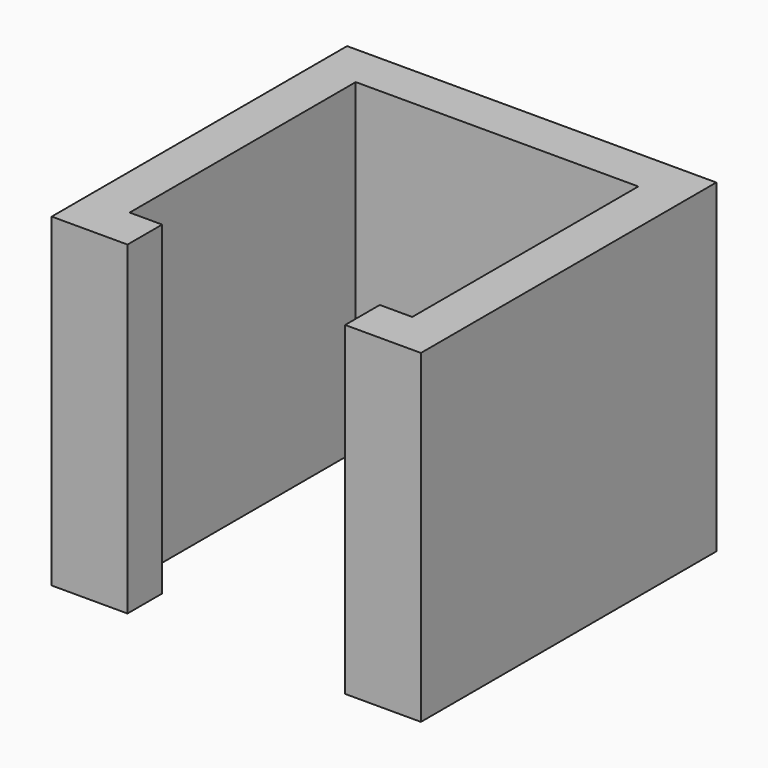
from build123d import *

# Parameters (mm, degrees)
F1_DEPTH = 7.5


with BuildPart() as f1:
    # F0 (on Top) → F1 (new body, symmetric)
    with BuildSketch(Plane.XY):
        Polygon((-6.525, -6.525), (-6.525, 6.525), (6.525, 6.525), (6.525, -6.525), (5.025, -6.525), (5.025, -8.525), (8.525, -8.525), (8.525, 8.525), (-8.525, 8.525), (-8.525, -8.525), (-5.025, -8.525), (-5.025, -6.525), align=None)
    extrude(amount=F1_DEPTH, both=True)


solid = f1.part
